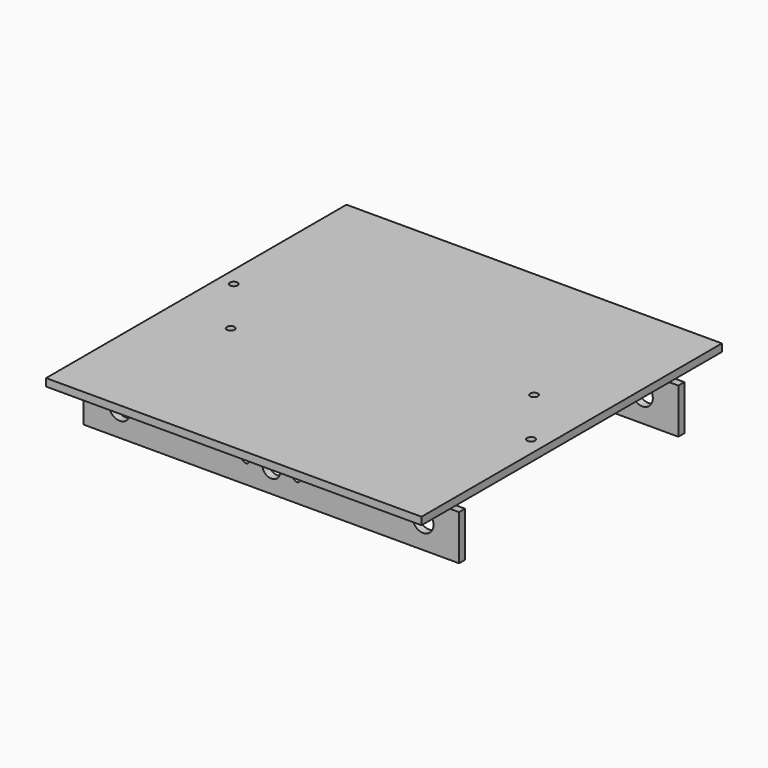
from build123d import *

# Parameters (mm, degrees)
F2_W      = 250
F2_H      = 250
F3_DEPTH  = 5
F4_W      = 5
F4_H      = 41.6666666667
F5_DEPTH  = 5
F6_W      = 250
F6_H      = 30
F7_DEPTH  = 5
F8_W      = 250
F8_H      = 30
F9_DEPTH  = 5
F11_R     = 2.5
F10_W     = 5
F10_H     = 187.5
F12_DEPTH = 35
F13_R     = 6
F13_R_2   = 7
F13_R_3   = 2.5
F14_DEPTH = 218.751
F15_R     = 2.6
F16_DEPTH = 40.001


with BuildPart() as f3:
    # F2 (on Top) → F3 (new body)
    with BuildSketch(Plane.XY):
        Rectangle(F2_W, F2_H)
    extrude(amount=F3_DEPTH)

    # F4 (on face) → F5 (join)
    with BuildSketch(Plane(origin=(0, 0, 0), x_dir=(1, 0, 0), z_dir=(0, 0, -1))):
        with Locations((-85.8333333333, 72.9166666667)):
            Rectangle(F4_W, F4_H)
        with Locations((85.8333333333, 72.9166666667)):
            Rectangle(F4_W, F4_H)
        with Locations((-85.8333333333, -72.9166666667)):
            Rectangle(F4_W, F4_H)
        with Locations((85.8333333333, -72.9166666667)):
            Rectangle(F4_W, F4_H)
    extrude(amount=F5_DEPTH)

    # F6 (on face) → F7 (join)
    with BuildSketch(Plane(origin=(0, 93.75, 0), x_dir=(-1, 0, 0), z_dir=(0, 1, 0))):
        with Locations((0, -20)):
            Rectangle(F6_W, F6_H)
    extrude(amount=-F7_DEPTH)

    # F8 (on face) → F9 (join)
    with BuildSketch(Plane.XZ.offset(93.75)):
        with Locations((0, -20)):
            Rectangle(F8_W, F8_H)
    extrude(amount=-F9_DEPTH)

    # F11
    f11_edges = [f3.edges().sort_by_distance(p)[0] for p in [
        (85.833333, -88.75, -5),
        (-85.833333, -88.75, -5),
        (85.833333, 88.75, -5),
        (-85.833333, 88.75, -5),
    ]]
    fillet(f11_edges, radius=F11_R)

    # F10 (on face) → F12 (join, through all)
    with BuildSketch(Plane(origin=(0, 0, 0), x_dir=(1, 0, 0), z_dir=(0, 0, -1))):
        with Locations((44.1666666667, 0)):
            Rectangle(F10_W, F10_H)
        with Locations((-44.1666666667, 0)):
            Rectangle(F10_W, F10_H)
    extrude(amount=F12_DEPTH)

    # F13 (on face) → F14 (cut, through all)
    with BuildSketch(Plane(origin=(0, 93.75, 0), x_dir=(-1, 0, 0), z_dir=(0, 1, 0))):
        with Locations((0, -20)):
            Circle(F13_R)
        with Locations((-101, -18)):
            Circle(F13_R_2)
        with Locations((101, -18)):
            Circle(F13_R_2)
        with Locations((17, -20)):
            Circle(F13_R_3)
        with Locations((-17, -20)):
            Circle(F13_R_3)
    extrude(amount=-F14_DEPTH, mode=Mode.SUBTRACT)

    # F15 (on face) → F16 (cut, through all)
    with BuildSketch(Plane.XY.offset(5)):
        with Locations((-85, -21.333)):
            Circle(F15_R)
        with Locations((-115, 18.667)):
            Circle(F15_R)
        with Locations((115, -21.333)):
            Circle(F15_R)
        with Locations((85, 18.667)):
            Circle(F15_R)
    extrude(amount=-F16_DEPTH, mode=Mode.SUBTRACT)


solid = f3.part
